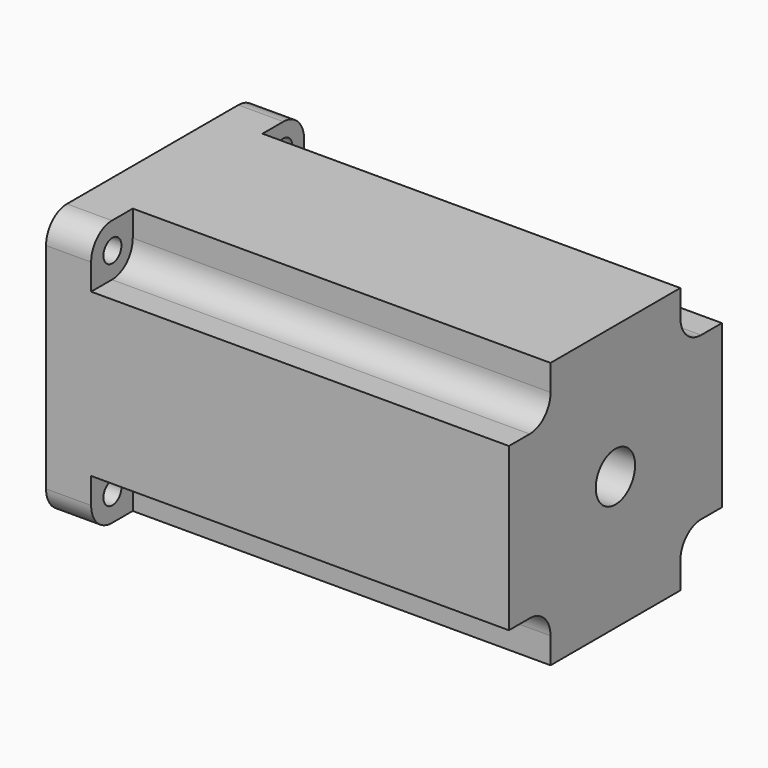
from build123d import *

# Parameters (mm, degrees)
F0_R     = 12
F1_DEPTH = 40
F0_R_2   = 45.49902
F2_DEPTH = 5
F3_DEPTH = 226
F0_R_3   = 5.5
F4_DEPTH = 22


with BuildPart() as f1:
    # F0 (on Right) → F1 (new body)
    with BuildSketch(Plane.YZ):
        Circle(F0_R)
    extrude(amount=-F1_DEPTH)

    # F0 (on Right) → F2 (join)
    with BuildSketch(Plane.YZ):
        Circle(F0_R_2)
        Circle(F0_R, mode=Mode.SUBTRACT)
    extrude(amount=-F2_DEPTH)

    # F0 (on Right) → F3 (join)
    with BuildSketch(Plane.YZ):
        with BuildLine():
            Line((-39.6, -65), (39.6, -65))
            Line((39.6, -65), (39.6, -52.3))
            ThreePointArc((39.6, -52.3), (43.3197438789, -43.3197438789), (52.3, -39.6))
            Line((52.3, -39.6), (65, -39.6))
            Line((65, -39.6), (65, 39.6))
            Line((65, 39.6), (52.3, 39.6))
            ThreePointArc((52.3, 39.6), (43.3197438789, 43.3197438789), (39.6, 52.3))
            Line((39.6, 52.3), (39.6, 65))
            Line((39.6, 65), (-39.6, 65))
            Line((-39.6, 65), (-39.6, 52.3))
            ThreePointArc((-39.6, 52.3), (-43.3197438789, 43.3197438789), (-52.3, 39.6))
            Line((-52.3, 39.6), (-65, 39.6))
            Line((-65, 39.6), (-65, -39.6))
            Line((-65, -39.6), (-52.3, -39.6))
            ThreePointArc((-52.3, -39.6), (-43.3197438789, -43.3197438789), (-39.6, -52.3))
            Line((-39.6, -52.3), (-39.6, -65))
        make_face()
        Circle(F0_R_2, mode=Mode.SUBTRACT)
        Circle(F0_R_2)
        Circle(F0_R, mode=Mode.SUBTRACT)
    extrude(amount=F3_DEPTH)

    # F0 (on Right) → F4 (join)
    with BuildSketch(Plane.YZ):
        with BuildLine():
            Line((-65, 52.3), (-65, 39.6))
            Line((-65, 39.6), (-52.3, 39.6))
            ThreePointArc((-52.3, 39.6), (-43.3197438789, 43.3197438789), (-39.6, 52.3))
            Line((-39.6, 52.3), (-39.6, 65))
            Line((-39.6, 65), (-52.3, 65))
            ThreePointArc((-52.3, 65), (-61.2802561211, 61.2802561211), (-65, 52.3))
        make_face()
        with Locations((-51.99888, 51.99888)):
            Circle(F0_R_3, mode=Mode.SUBTRACT)
        with BuildLine():
            Line((52.3, 39.6), (65, 39.6))
            Line((65, 39.6), (65, 52.3))
            ThreePointArc((65, 52.3), (61.2802561211, 61.2802561211), (52.3, 65))
            Line((52.3, 65), (39.6, 65))
            Line((39.6, 65), (39.6, 52.3))
            ThreePointArc((39.6, 52.3), (43.3197438789, 43.3197438789), (52.3, 39.6))
        make_face()
        with Locations((52.3, 52.3)):
            Circle(F0_R_3, mode=Mode.SUBTRACT)
        with BuildLine():
            Line((39.6, -65), (52.3, -65))
            ThreePointArc((52.3, -65), (61.2802561211, -61.2802561211), (65, -52.3))
            Line((65, -52.3), (65, -39.6))
            Line((65, -39.6), (52.3, -39.6))
            ThreePointArc((52.3, -39.6), (43.3197438789, -43.3197438789), (39.6, -52.3))
            Line((39.6, -52.3), (39.6, -65))
        make_face()
        with Locations((52.3, -52.3)):
            Circle(F0_R_3, mode=Mode.SUBTRACT)
        with BuildLine():
            Line((-52.3, -65), (-39.6, -65))
            Line((-39.6, -65), (-39.6, -52.3))
            ThreePointArc((-39.6, -52.3), (-43.3197438789, -43.3197438789), (-52.3, -39.6))
            Line((-52.3, -39.6), (-65, -39.6))
            Line((-65, -39.6), (-65, -52.3))
            ThreePointArc((-65, -52.3), (-61.2802561211, -61.2802561211), (-52.3, -65))
        make_face()
        with Locations((-51.99888, -51.99888)):
            Circle(F0_R_3, mode=Mode.SUBTRACT)
    extrude(amount=F4_DEPTH)


solid = f1.part
